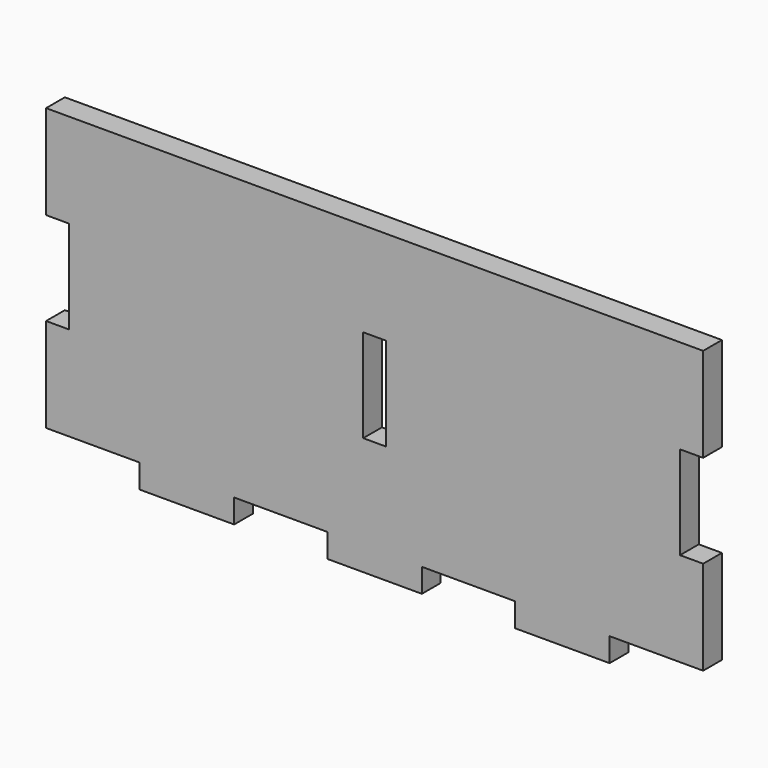
from build123d import *

# Parameters (mm, degrees)
F0_W     = 6.1722
F0_H     = 25.2222
F0_W_2   = 25.5778
F0_H_2   = 6.4389
F1_DEPTH = 6.35


with BuildPart() as f1:
    # F0 (on Front) → F1 (new body)
    with BuildSketch(Plane.XZ):
        Polygon((0, 25.4889), (0, 0), (25.3111, 0), (50.8889, 0), (76.1111, 0), (101.6889, 0), (126.9111, 0), (152.4889, 0), (177.8, 0), (177.8, 25.4889), (171.5389, 25.4889), (171.5389, 50.7111), (177.8, 50.7111), (177.8, 76.2), (0, 76.2), (0, 50.7111), (6.2611, 50.7111), (6.2611, 25.4889), align=None)
        with Locations((88.9, 38.1)):
            Rectangle(F0_W, F0_H, mode=Mode.SUBTRACT)
        with Locations((38.1, -3.21945)):
            Rectangle(F0_W_2, F0_H_2)
        with Locations((88.9, -3.21945)):
            Rectangle(F0_W_2, F0_H_2)
        with Locations((139.7, -3.21945)):
            Rectangle(F0_W_2, F0_H_2)
    extrude(amount=F1_DEPTH)


solid = f1.part
